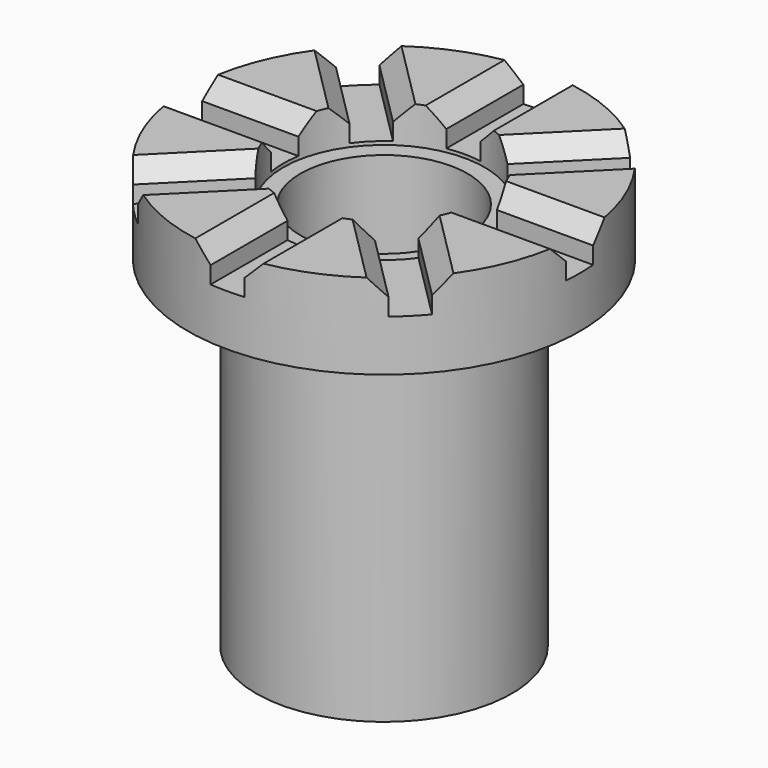
from build123d import *

# Parameters (mm, degrees)
SKETCH275_R             = 3.75
PAD158_DEPTH            = 10
SKETCH276_R             = 5.75
PAD159_DEPTH            = 2.5
SKETCH277_R             = 2.95
POCKET130_DEPTH         = 1.1
SKETCH278_R             = 2.45
POCKET131_DEPTH         = 3.6
POCKET132_DEPTH         = 1
CHAMFER_SIZE            = 0.5
SKETCH280_W             = 4
SKETCH280_H             = 4
POCKET133_DEPTH         = 6.25
BODY023_PLACEMENT_ANGLE = 180


with BuildPart() as part:
    # Sketch275 → Pad158 (new body)
    with BuildSketch(Plane.XY):
        Circle(SKETCH275_R)
    extrude(amount=PAD158_DEPTH)

    # Sketch276 (on Face3 of Pad158) → Pad159 (join)
    with BuildSketch(Plane.XY.offset(10)):
        Circle(SKETCH276_R)
    extrude(amount=PAD159_DEPTH)

    # Sketch277 (on Face5 of Pad159) → Pocket130 (cut)
    with BuildSketch(Plane.XY.offset(12.5)):
        Circle(SKETCH277_R)
    extrude(amount=-POCKET130_DEPTH, mode=Mode.SUBTRACT)

    # Sketch278 (on Face7 of Pocket130) → Pocket131 (cut)
    with BuildSketch(Plane.XY.offset(11.4)):
        Circle(SKETCH278_R)
    extrude(amount=-POCKET131_DEPTH, mode=Mode.SUBTRACT)

    # Sketch279 (on Face5 of Pocket131) → Pocket132 (cut)
    with BuildSketch(Plane.XY.offset(12.5)):
        Polygon((-0.5, 6.25), (-0.5, 1.25), (-4.035534, 4.785534), (-4.742641, 4.078427), (-1.164214, 0.5), (-6.164214, 0.5), (-6.164214, -0.5), (-1.164214, -0.5), (-4.699747, -4.035534), (-3.992641, -4.742641), (-0.5, -1.25), (-0.5, -6.25), (0.5, -6.25), (0.5, -1.25), (3.992641, -4.742641), (4.699747, -4.035534), (1.164214, -0.5), (6.164214, -0.5), (6.164214, 0.5), (1.164214, 0.5), (4.742641, 4.078427), (4.035534, 4.785534), (0.5, 1.25), (0.5, 6.25), align=None)
    extrude(amount=-POCKET132_DEPTH, mode=Mode.SUBTRACT)

    # Chamfer
    chamfer_edges = [part.edges().sort_by_distance(p)[0] for p in [
        (0.5, 4.317769, 12.5),
        (-0.5, 4.317769, 12.5),
        (-2.675257, 3.425257, 12.5),
        (-3.387925, 2.723711, 12.5),
        (-4.317769, 0.5, 12.5),
        (-4.317769, -0.5, 12.5),
        (-3.387925, -2.723711, 12.5),
        (-2.675257, -3.425257, 12.5),
        (-0.5, -4.317769, 12.5),
        (0.5, -4.317769, 12.5),
        (2.675257, -3.425257, 12.5),
        (3.387925, -2.723711, 12.5),
        (4.317769, -0.5, 12.5),
        (4.317769, 0.5, 12.5),
        (3.387925, 2.723711, 12.5),
        (2.675257, 3.425257, 12.5),
    ]]
    chamfer(chamfer_edges, length=CHAMFER_SIZE)

    # Sketch280 (on Face54 of Chamfer) → Pocket133 (cut)
    with BuildSketch(Plane(origin=(0, 0, 0), x_dir=(1, 0, 0), z_dir=(0, 0, -1))):
        Rectangle(SKETCH280_W, SKETCH280_H)
    extrude(amount=-POCKET133_DEPTH, mode=Mode.SUBTRACT)


with BuildPart() as part_1:
    # Body023 placement: moved
    add(part.part.moved(Location((38.2, -32, -11))).rotate(Axis((38.2, -32, -11), (0, 0, 1)), BODY023_PLACEMENT_ANGLE))


solid = part_1.part
